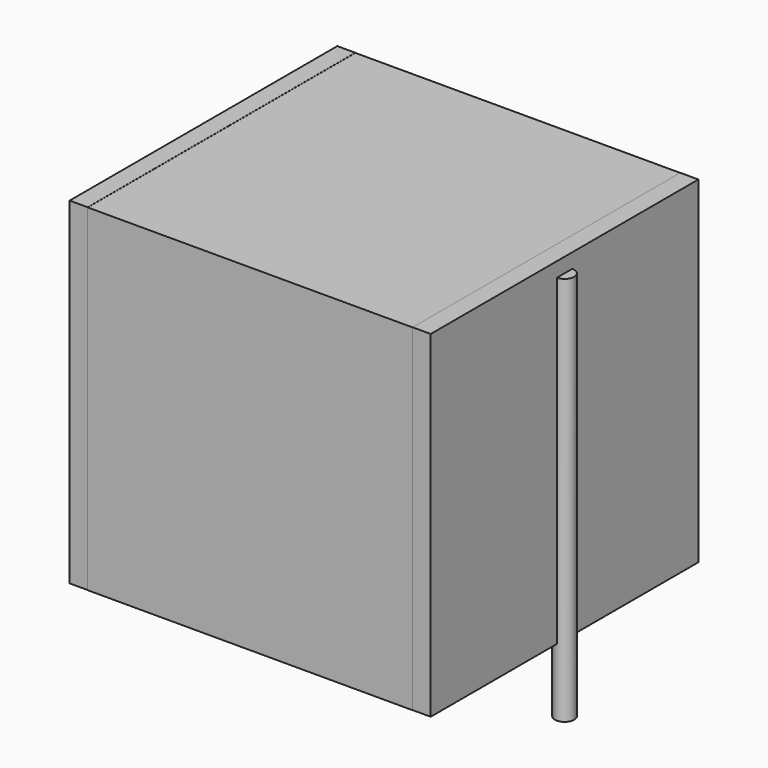
from build123d import *

# Parameters (mm, degrees)
SKETCH_W          = 13.5
SKETCH_H          = 13.9
PAD_DEPTH         = 14
SKETCH001_R       = 0.4
PAD001_DEPTH      = 13
PAD001_DEPTH_BACK = 3.2
SKETCH002_W       = 0.75
SKETCH002_H       = 13.9
PAD002_DEPTH      = 14


with BuildPart() as pad:
    # Sketch → Pad (new body)
    with BuildSketch(Plane.XY.offset(0.1)):
        with Locations((7.5, 0)):
            Rectangle(SKETCH_W, SKETCH_H)
    extrude(amount=PAD_DEPTH)


with BuildPart() as pad001:
    # Sketch001 → Pad001 (new body, two sides)
    with BuildSketch(Plane.XY.offset(0.5)) as pad001_sk:
        Circle(SKETCH001_R)
        with Locations((15, 0)):
            Circle(SKETCH001_R)
    extrude(amount=PAD001_DEPTH)
    extrude(pad001_sk.sketch, amount=-PAD001_DEPTH_BACK)


with BuildPart() as pad002:
    # Sketch002 → Pad002 (new body)
    with BuildSketch(Plane.XY.offset(0.105)):
        with Locations((0.375, 0)):
            Rectangle(SKETCH002_W, SKETCH002_H)
        with Locations((14.625, 0)):
            Rectangle(SKETCH002_W, SKETCH002_H)
    extrude(amount=PAD002_DEPTH)


solid = Compound([pad.part, pad001.part, pad002.part])
